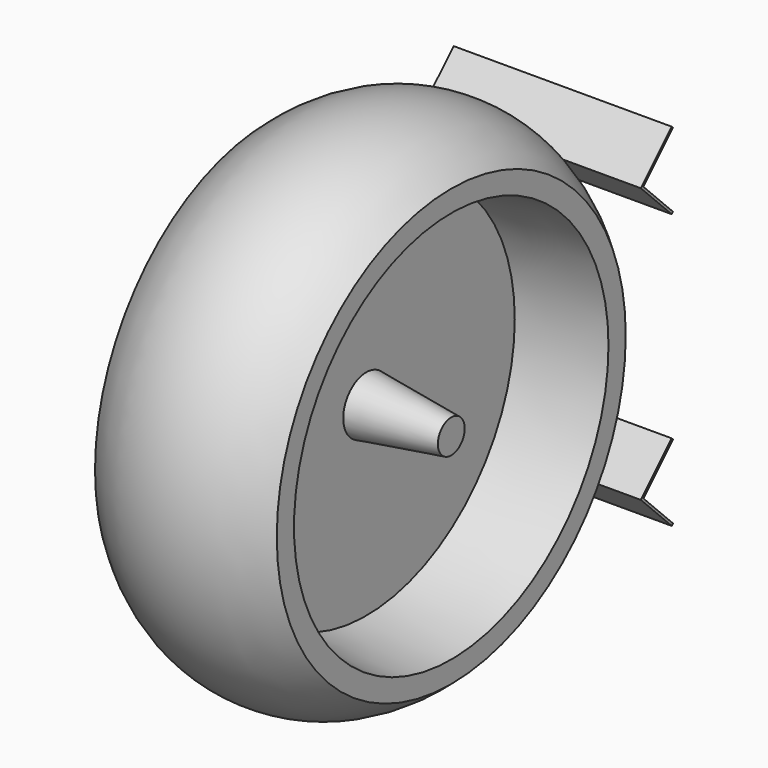
from build123d import *

# Parameters (mm, degrees)
F4_DEPTH = 152.4


with BuildPart() as f1:
    # F0 (on Top) → F1 (revolve)
    with BuildSketch(Plane.XY):
        with BuildLine():
            Line((63.5, 137.339488), (63.5, 152.4))
            ThreePointArc((63.5, 152.4), (0, 177.8), (-63.5, 152.4))
            Line((-63.5, 152.4), (-63.5, 137.339488))
            Line((-63.5, 137.339488), (-4.118823, 129.695132))
            Line((-4.118823, 129.695132), (-4.118823, 20.126132))
            Line((-4.118823, 20.126132), (-63.5, 11.717348))
            Line((-63.5, 11.717348), (-63.5, 0))
            Line((-63.5, 0), (63.5, 0))
            Line((63.5, 0), (63.5, 11.717348))
            Line((63.5, 11.717348), (4.118823, 20.126132))
            Line((4.118823, 20.126132), (4.118823, 129.695132))
            Line((4.118823, 129.695132), (63.5, 137.339488))
        make_face()
    revolve(axis=Axis((-121.540091, 0, 0), (-1, 0, 0)))


with BuildPart() as f4:
    # F3 (on offset) → F4 (new body)
    with BuildSketch(Plane.YZ.offset(76.2)):
        Polygon((176.686448, -68.918876), (149.74568, -95.859644), (176.686448, -122.800412), (177.8, -121.686861), (151.972783, -95.859644), (177.8, -70.032427), align=None)
        Polygon((176.686448, 68.918876), (177.8, 70.032427), (151.972783, 95.859644), (177.8, 121.686861), (176.686448, 122.800412), (149.74568, 95.859644), align=None)
    extrude(amount=-F4_DEPTH)


solid = Compound([f1.part, f4.part])
